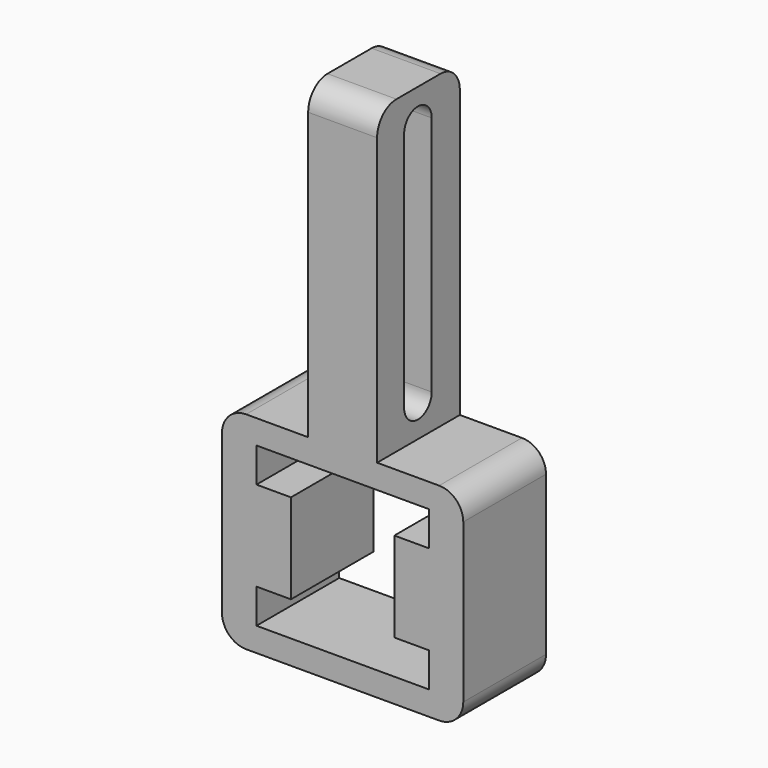
from build123d import *

# Parameters (mm, degrees)
F0_W     = 20
F0_H     = 90
F1_DEPTH = 30
F3_DEPTH = 82
F5_R     = 7
F7_DEPTH = 40.5


with BuildPart() as f1:
    # F0 (on Front) → F1 (new body)
    with BuildSketch(Plane.XZ):
        with BuildLine():
            Line((-28, -30), (28, -30))
            ThreePointArc((28, -30), (32.949747, -27.949747), (35, -23))
            Line((35, -23), (35, 23))
            ThreePointArc((35, 23), (32.949747, 27.949747), (28, 30))
            Line((28, 30), (10, 30))
            Line((10, 30), (-10, 30))
            Line((-10, 30), (-28, 30))
            ThreePointArc((-28, 30), (-32.949747, 27.949747), (-35, 23))
            Line((-35, 23), (-35, -23))
            ThreePointArc((-35, -23), (-32.949747, -27.949747), (-28, -30))
        make_face()
        with Locations((0, 75)):
            Rectangle(F0_W, F0_H)
    extrude(amount=F1_DEPTH)


with BuildPart() as f3:
    # F2 (on face) → F3 (new body, symmetric)
    with BuildSketch(Plane.XZ.offset(30)):
        Polygon((25, 23.023667), (0, 23.023667), (-25, 23.023667), (-25, 13.023667), (-15, 13.023667), (-15, 0.299923), (-15, -0.299923), (-15, -13.023667), (-25, -13.023667), (-25, -23.023667), (0, -23.023667), (25, -23.023667), (25, -13.023667), (15, -13.023667), (15, -0.299923), (15, 0.299923), (15, 13.023667), (25, 13.023667), align=None)
    extrude(amount=F3_DEPTH, both=True)


with BuildPart() as f1_1:
    add(f1.part)

    # F4: cut F3
    add(f3.part, mode=Mode.SUBTRACT)

    # F5
    f5_edges = [f1_1.edges().sort_by_distance(p)[0] for p in [
        (0, -30, 120),
        (0, 0, 120),
    ]]
    fillet(f5_edges, radius=F5_R)


with BuildPart() as f7:
    # F6 (on face) → F7 (new body)
    with BuildSketch(Plane.YZ.offset(10)):
        with BuildLine():
            ThreePointArc((-10.195938, 110), (-15.195938, 115), (-20.195938, 110))
            Line((-20.195938, 110), (-20.195938, 40))
            ThreePointArc((-20.195938, 40), (-15.195938, 35), (-10.195938, 40))
            Line((-10.195938, 40), (-10.195938, 110))
        make_face()
    extrude(amount=-F7_DEPTH)


with BuildPart() as f1_2:
    add(f1_1.part)

    # F8: cut F7
    add(f7.part, mode=Mode.SUBTRACT)


solid = f1_2.part
